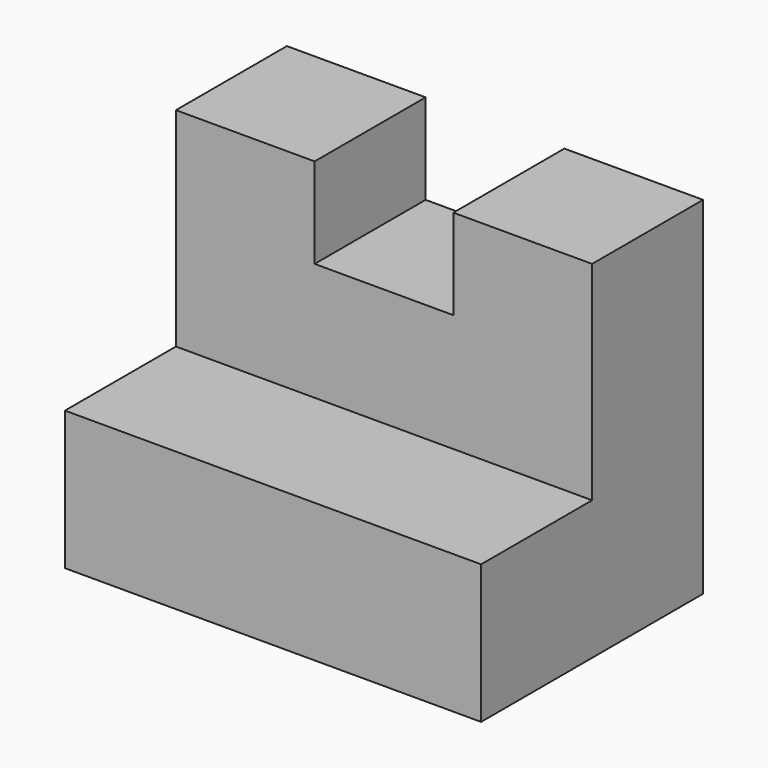
from build123d import *

# Parameters (mm, degrees)
F1_DEPTH = 12.7
F2_W     = 38.1
F2_H     = 12.7
F3_DEPTH = 12.7


with BuildPart() as f1:
    # F0 (on Front) → F1 (new body)
    with BuildSketch(Plane.XZ):
        Polygon((-43.089284, 31.75), (-43.089284, 0), (-4.989284, 0), (-4.989284, 31.75), (-17.689284, 31.75), (-17.689284, 23.488521), (-30.389284, 23.488521), (-30.389284, 31.75), align=None)
    extrude(amount=F1_DEPTH)

    # F2 (on face) → F3 (join)
    with BuildSketch(Plane.XZ.offset(12.7)):
        with Locations((-24.039284, 6.35)):
            Rectangle(F2_W, F2_H)
    extrude(amount=F3_DEPTH)


solid = f1.part
